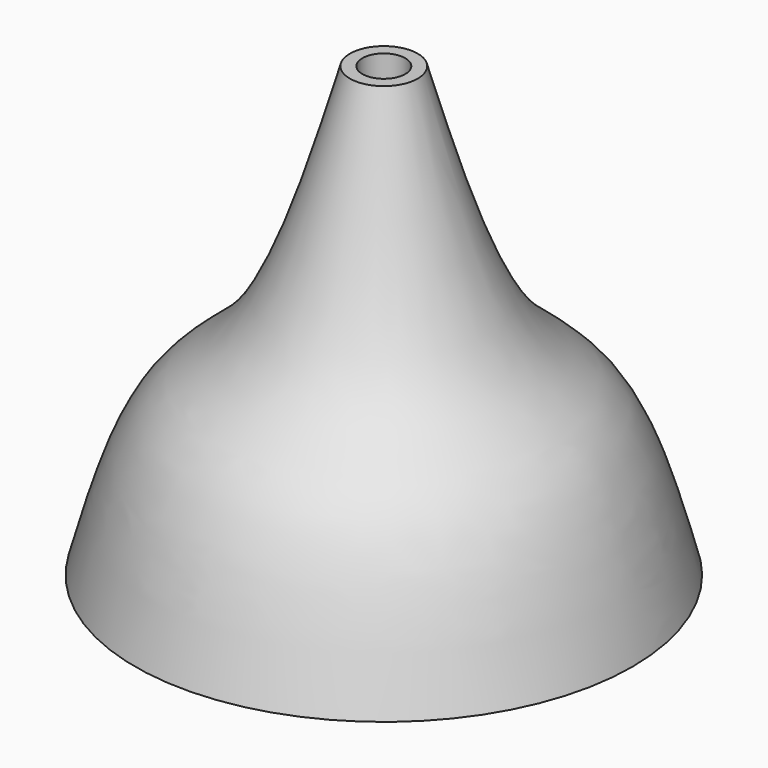
from build123d import *


with BuildPart() as f1:
    # F0 (on Front) → F1 (revolve)
    with BuildSketch(Plane.XZ):
        with BuildLine():
            Line((0, 55.0403222442), (0, 0))
            Line((0, 0), (41.3978546858, 0))
            add(Edge.make_bspline(
                [(41.3978546858, 0), (38.7681818053, 9.7160074059), (34.1037494872, 26.949960451), (17.0856109548, 34.6877138481), (9.9996896117, 59.41469255), (5.6451624259, 74.6102184057)],
                knots=[0, 0, 0, 0, 0.3325185641, 0.5898111314, 1, 1, 1, 1], degree=3))
            Line((5.6451624259, 74.6102184057), (3.5752691329, 74.6102184057))
            Line((3.5752691329, 74.6102184057), (3.5752691329, 55.0403222442))
            Line((3.5752691329, 55.0403222442), (0, 55.0403222442))
        make_face()
    revolve(axis=Axis((0, 0, 27.5201611221), (0, 0, -1)))


solid = f1.part
